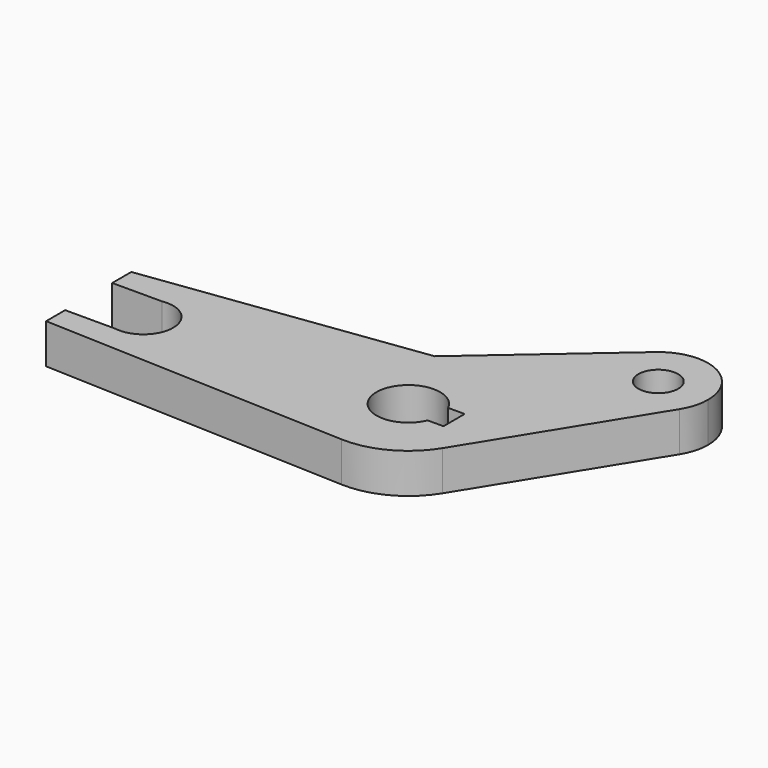
from build123d import *

# Parameters (mm, degrees)
F0_R     = 15
F1_DEPTH = 30


with BuildPart() as f1:
    # F0 (on Top) → F1 (new body)
    with BuildSketch(Plane.XY):
        with BuildLine():
            Line((156.1400739411, 73.6479063982), (-50.5629074779, 45.9984296431))
            Line((-50.5629074779, 45.9984296431), (-50.5629074779, 27.9984296431))
            Line((-50.5629074779, 27.9984296431), (-13.0629074779, 27.9984296431))
            ThreePointArc((-13.0629074779, 27.9984296431), (13.1715894205, 5.8105155249), (-13.0629074779, -16.3773985932))
            Line((-13.0629074779, -16.3773985932), (-50.5629074779, -16.3773985932))
            Line((-50.5629074779, -16.3773985932), (-50.5629074779, -34.3773985932))
            Line((-50.5629074779, -34.3773985932), (179.5893780076, -43.3898314776))
            ThreePointArc((179.5893780076, -43.3898314776), (125.3396549973, -3.3538643183), (142.5585209356, 61.8337247525))
            Line((142.5585209356, 61.8337247525), (156.1400739411, 73.6479063982))
        make_face()
        with BuildLine():
            ThreePointArc((316.5634428112, 130.8728897514), (294.6087753654, 164.9990180958), (254.4518355697, 159.1663304929))
            ThreePointArc((254.4518355697, 159.1663304929), (254.7818552389, 102.2957222051), (310.9595263244, 111.1525992739))
            ThreePointArc((310.9595263244, 111.1525992739), (315.1352679088, 120.6223563932), (316.5634428112, 130.8728897514))
        make_face()
        with Locations((279.0634428112, 130.8728897514)):
            Circle(F0_R, mode=Mode.SUBTRACT)
        with BuildLine():
            Line((173.9820887955, 76.0345307787), (156.1400739411, 73.6479063982))
            Line((156.1400739411, 73.6479063982), (142.5585209356, 61.8337247525))
            ThreePointArc((142.5585209356, 61.8337247525), (157.2281354229, 71.2402420904), (173.9820887955, 76.0345307787))
        make_face()
        with BuildLine():
            ThreePointArc((241.9370925221, 16.5642195662), (221.4510127047, 61.7156327423), (173.9820887955, 76.0345307787))
            ThreePointArc((173.9820887955, 76.0345307787), (157.2281354229, 71.2402420904), (142.5585209356, 61.8337247525))
            ThreePointArc((142.5585209356, 61.8337247525), (125.3396549973, -3.3538643183), (179.5893780076, -43.3898314776))
            ThreePointArc((179.5893780076, -43.3898314776), (210.1194387678, -36.4051617789), (232.9708261432, -14.9882451979))
            ThreePointArc((232.9708261432, -14.9882451979), (239.6520126783, 0.1633661931), (241.9370925221, 16.5642195662))
        make_face()
        with BuildLine():
            ThreePointArc((204.0295785639, 7.1875431565), (157.9468911358, 15.8784809523), (203.4578963151, 27.1875431565))
            Line((203.4578963151, 27.1875431565), (215.9370925221, 27.1875431565))
            Line((215.9370925221, 27.1875431565), (215.9370925221, 7.1875431565))
            Line((215.9370925221, 7.1875431565), (204.0295785639, 7.1875431565))
        make_face(mode=Mode.SUBTRACT)
        with BuildLine():
            Line((254.4518355697, 159.1663304929), (156.1400739411, 73.6479063982))
            Line((156.1400739411, 73.6479063982), (173.9820887955, 76.0345307787))
            ThreePointArc((173.9820887955, 76.0345307787), (221.4510127047, 61.7156327423), (241.9370925221, 16.5642195662))
            ThreePointArc((241.9370925221, 16.5642195662), (239.6520126783, 0.1633661931), (232.9708261432, -14.9882451979))
            Line((232.9708261432, -14.9882451979), (310.9595263244, 111.1525992739))
            ThreePointArc((310.9595263244, 111.1525992739), (254.7818552389, 102.2957222051), (254.4518355697, 159.1663304929))
        make_face()
    extrude(amount=F1_DEPTH)


solid = f1.part
